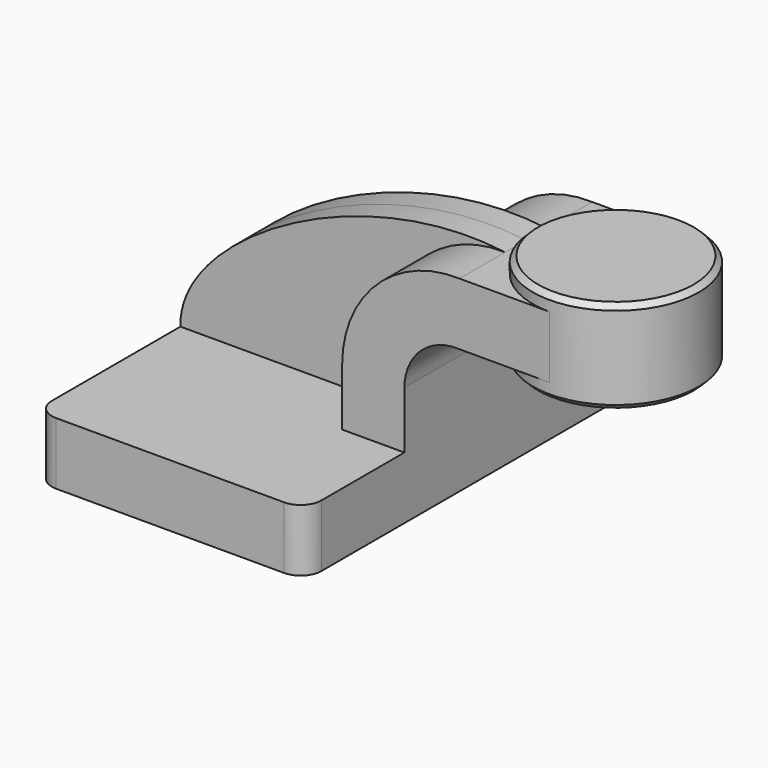
from build123d import *

# Parameters (mm, degrees)
F1_DEPTH = 63.5
F0_W     = 25.4
F0_H     = 19.05
F2_DEPTH = 25.4
F3_DEPTH = 7.9375
F5_R     = 6.35
F6_SIZE  = 1.5875


with BuildPart() as f1:
    # F0 (on Front) → F1 (new body, symmetric)
    with BuildSketch(Plane.XZ):
        Polygon((-41.275, -9.525), (41.275, -9.525), (41.275, 9.525), (22.225, 9.525), (-41.275, 9.525), align=None)
    extrude(amount=F1_DEPTH, both=True)

    # F0 (on Front) → F2 (join, symmetric)
    with BuildSketch(Plane.XZ):
        with BuildLine():
            Line((22.225, 9.525), (41.275, 9.525))
            Line((41.275, 9.525), (41.275, 27.0018676308))
            ThreePointArc((41.275, 27.0018676308), (46.1660118217, 38.4634394558), (57.8252524344, 42.8625))
            Line((57.8252524344, 42.8625), (60.325, 42.8625))
            Line((60.325, 42.8625), (60.325, 61.9125))
            Line((60.325, 61.9125), (58.151684873, 61.9125))
            ThreePointArc((58.151684873, 61.9125), (32.8110211717, 52.0492174826), (22.225, 27.0018676308))
            Line((22.225, 27.0018676308), (22.225, 9.525))
        make_face()
        with Locations((73.025, 52.3875)):
            Rectangle(F0_W, F0_H)
    extrude(amount=F2_DEPTH, both=True)

    # F0 (on Front) → F3 (join, symmetric)
    with BuildSketch(Plane.XZ):
        with BuildLine():
            add(Edge.make_bspline(
                [(-41.275, 9.525), (-42.120564729, 35.0021496415), (12.7173494548, 67.8302869201), (58.151684873, 61.9125)],
                knots=[0, 0, 0, 0, 112.3837880706, 112.3837880706, 112.3837880706, 112.3837880706], degree=3))
            Line((-41.275, 9.525), (22.225, 9.525))
            Line((22.225, 9.525), (22.225, 27.0018676308))
            ThreePointArc((22.225, 27.0018676308), (32.8110211717, 52.0492174826), (58.151684873, 61.9125))
        make_face()
    extrude(amount=F3_DEPTH, both=True)

    # F0 (on Front) → F4 (revolve)
    with BuildSketch(Plane.XZ):
        Polygon((85.725, 66.675), (85.725, 61.9125), (85.725, 42.8625), (85.725, 38.1), (111.125, 38.1), (111.125, 66.675), align=None)
    revolve(axis=Axis((85.725, 0, 52.3875), (0, 0, -1)))

    # F5
    f5_edges = [f1.edges().sort_by_distance(p)[0] for p in [
        (41.275, -63.5, 0),
        (41.275, 63.5, 0),
        (-41.275, -63.5, 0),
        (-41.275, 63.5, 0),
    ]]
    fillet(f5_edges, radius=F5_R)

    # F6
    f6_edges = [f1.edges().sort_by_distance(p)[0] for p in [
        (60.325, 0, 66.675),
        (60.325, 0, 38.1),
    ]]
    chamfer(f6_edges, length=F6_SIZE)


solid = f1.part
